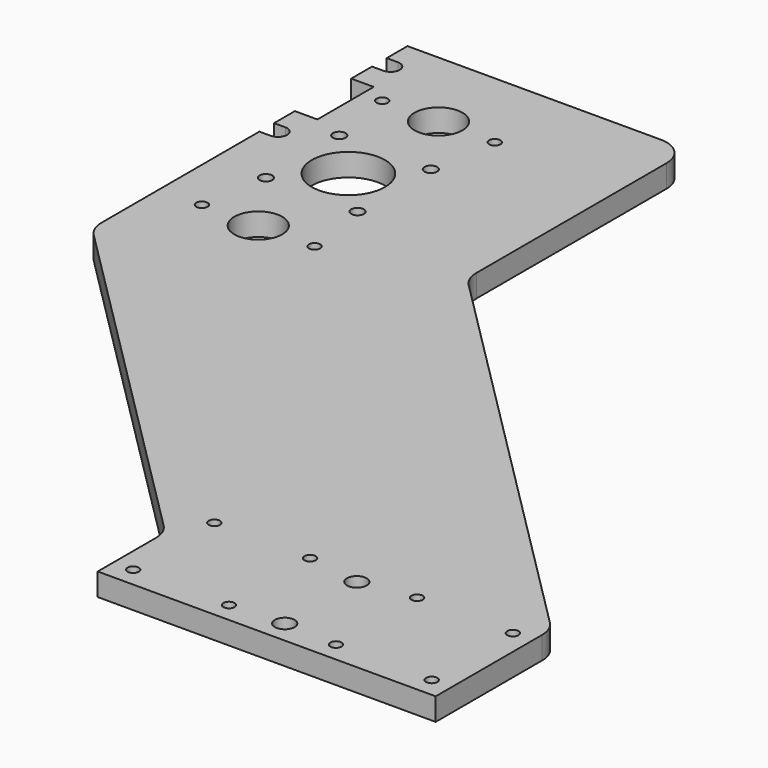
from build123d import *

# Parameters (mm, degrees)
F0_R     = 2
F0_R_2   = 3.5
F0_R_3   = 2.25
F0_R_4   = 8.5
F0_R_5   = 13
F1_DEPTH = 8
F2_R     = 10


with BuildPart() as f1:
    # F0 (on Top) → F1 (new body)
    with BuildSketch(Plane.XY):
        with BuildLine():
            Line((0, 30), (0, 0))
            Line((0, 0), (120, 0))
            Line((120, 0), (120, 51.421356))
            Line((120, 51.421356), (-30, 201.421356))
            Line((-30, 201.421356), (-30, 300))
            Line((-30, 300), (-130, 300))
            Line((-130, 300), (-130, 290.75))
            Line((-130, 290.75), (-126, 290.75))
            ThreePointArc((-126, 290.75), (-122.75, 287.5), (-126, 284.25))
            Line((-126, 284.25), (-130, 284.25))
            Line((-130, 284.25), (-130, 275))
            Line((-130, 275), (-122, 275))
            Line((-122, 275), (-122, 250))
            Line((-122, 250), (-130, 250))
            Line((-130, 250), (-130, 240.75))
            Line((-130, 240.75), (-126, 240.75))
            ThreePointArc((-126, 240.75), (-122.75, 237.5), (-126, 234.25))
            Line((-126, 234.25), (-130, 234.25))
            Line((-130, 234.25), (-130, 160))
            Line((-130, 160), (0, 30))
        make_face()
        with Locations((7, 7)):
            Circle(F0_R, mode=Mode.SUBTRACT)
        with Locations((41, 7)):
            Circle(F0_R, mode=Mode.SUBTRACT)
        with Locations((7, 43)):
            Circle(F0_R, mode=Mode.SUBTRACT)
        with Locations((41, 43)):
            Circle(F0_R, mode=Mode.SUBTRACT)
        with Locations((60, 8)):
            Circle(F0_R_2, mode=Mode.SUBTRACT)
        with Locations((79, 7)):
            Circle(F0_R, mode=Mode.SUBTRACT)
        with Locations((113, 7)):
            Circle(F0_R, mode=Mode.SUBTRACT)
        with Locations((60, 40)):
            Circle(F0_R_2, mode=Mode.SUBTRACT)
        with Locations((79, 43)):
            Circle(F0_R, mode=Mode.SUBTRACT)
        with Locations((113, 43)):
            Circle(F0_R, mode=Mode.SUBTRACT)
        with Locations((-115, 190)):
            Circle(F0_R, mode=Mode.SUBTRACT)
        with Locations((-111.263456, 213.736544)):
            Circle(F0_R_3, mode=Mode.SUBTRACT)
        with Locations((-95, 190)):
            Circle(F0_R_4, mode=Mode.SUBTRACT)
        with Locations((-75, 190)):
            Circle(F0_R, mode=Mode.SUBTRACT)
        with Locations((-78.736544, 213.736544)):
            Circle(F0_R_3, mode=Mode.SUBTRACT)
        with Locations((-111.263456, 246.263456)):
            Circle(F0_R_3, mode=Mode.SUBTRACT)
        with Locations((-95, 230)):
            Circle(F0_R_5, mode=Mode.SUBTRACT)
        with Locations((-78.736544, 246.263456)):
            Circle(F0_R_3, mode=Mode.SUBTRACT)
        with Locations((-115, 270)):
            Circle(F0_R, mode=Mode.SUBTRACT)
        with Locations((-95, 270)):
            Circle(F0_R_4, mode=Mode.SUBTRACT)
        with Locations((-75, 270)):
            Circle(F0_R, mode=Mode.SUBTRACT)
    extrude(amount=F1_DEPTH)

    # F2
    f2_edges = [f1.edges().sort_by_distance(p)[0] for p in [
        (-30, 300, 4),
        (-30, 201.421356, 4),
        (-130, 160, 4),
        (0, 30, 4),
        (120, 51.421356, 4),
    ]]
    fillet(f2_edges, radius=F2_R)


solid = f1.part
